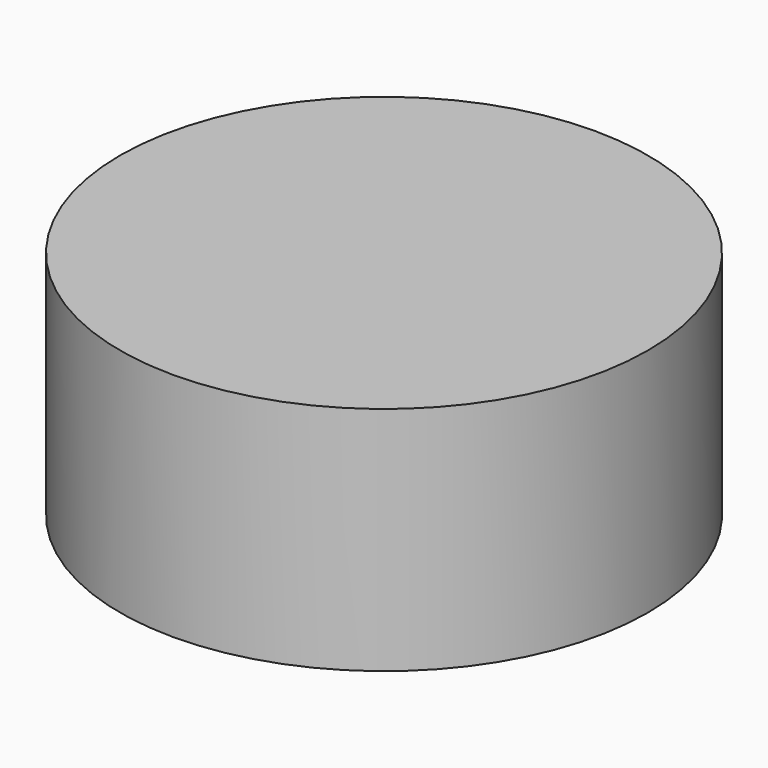
from build123d import *

# Parameters (mm, degrees)
F0_R     = 31.565
F1_DEPTH = 27.6
F2_R     = 2.5
F3_DEPTH = 9
F4_R     = 1.75
F5_DEPTH = 3
F6_R     = 1.5
F7_DEPTH = 5


with BuildPart() as f1:
    # F0 (on Top) → F1 (new body)
    with BuildSketch(Plane.XY):
        Circle(F0_R)
    extrude(amount=F1_DEPTH)

    # F2 (on face) → F3 (join)
    with BuildSketch(Plane(origin=(0, 0, 0), x_dir=(1, 0, 0), z_dir=(0, 0, -1))):
        Circle(F2_R)
    extrude(amount=F3_DEPTH)

    # F4 (on face) → F5 (join)
    with BuildSketch(Plane(origin=(0, 0, -9), x_dir=(1, 0, 0), z_dir=(0, 0, -1))):
        Circle(F4_R)
    extrude(amount=F5_DEPTH)

    # F6 (on face) → F7 (cut)
    with BuildSketch(Plane(origin=(0, 0, 0), x_dir=(1, 0, 0), z_dir=(0, 0, -1))):
        with Locations((0, 22)):
            Circle(F6_R)
        with Locations((0, -22)):
            Circle(F6_R)
        with Locations((-22, 0)):
            Circle(F6_R)
        with Locations((22, 0)):
            Circle(F6_R)
    extrude(amount=-F7_DEPTH, mode=Mode.SUBTRACT)


solid = f1.part
